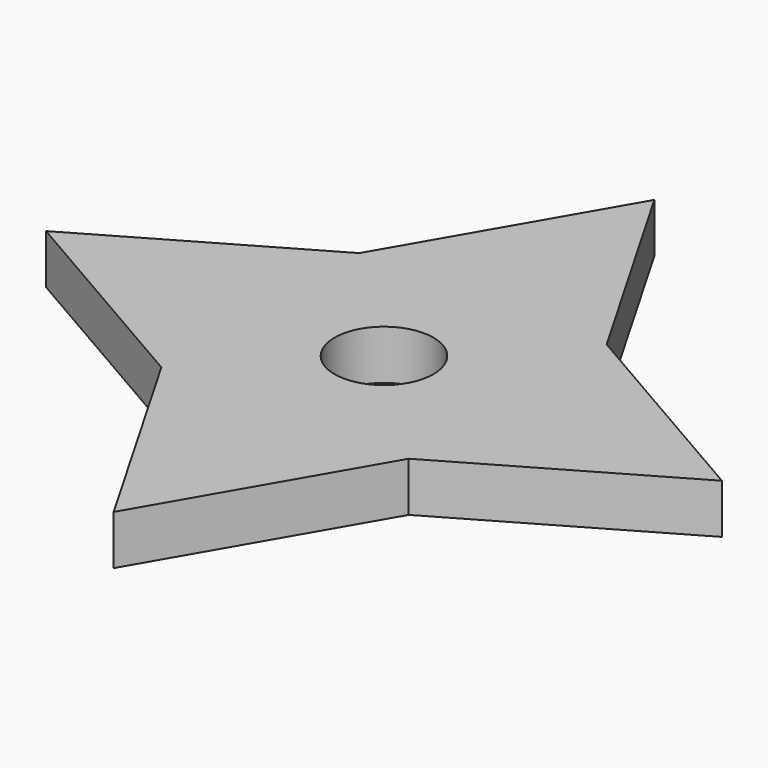
from build123d import *

# Parameters (mm, degrees)
F0_W          = 50
F0_H          = 50
F1_DEPTH      = 5
F1_DEPTH_BACK = 5
F2_R          = 10
F3_DEPTH      = 10.001


with BuildPart() as f1:
    # F0 (on Top) → F1 (new body, two sides)
    with BuildSketch(Plane.XY) as f1_sk:
        Rectangle(F0_W, F0_H)
        Polygon((68.3012701892, 0), (25, 25), (25, -25), align=None)
        Polygon((-25, 25), (25, 25), (0, 68.3012701892), align=None)
        Polygon((-25, -25), (-25, 25), (-68.3012701892, 0), align=None)
        Polygon((0, -68.3012701892), (25, -25), (-25, -25), align=None)
    extrude(amount=F1_DEPTH)
    extrude(f1_sk.sketch, amount=-F1_DEPTH_BACK)

    # F2 (on face) → F3 (cut, through all)
    with BuildSketch(Plane.XY.offset(5)):
        Circle(F2_R)
    extrude(amount=-F3_DEPTH, mode=Mode.SUBTRACT)


solid = f1.part
